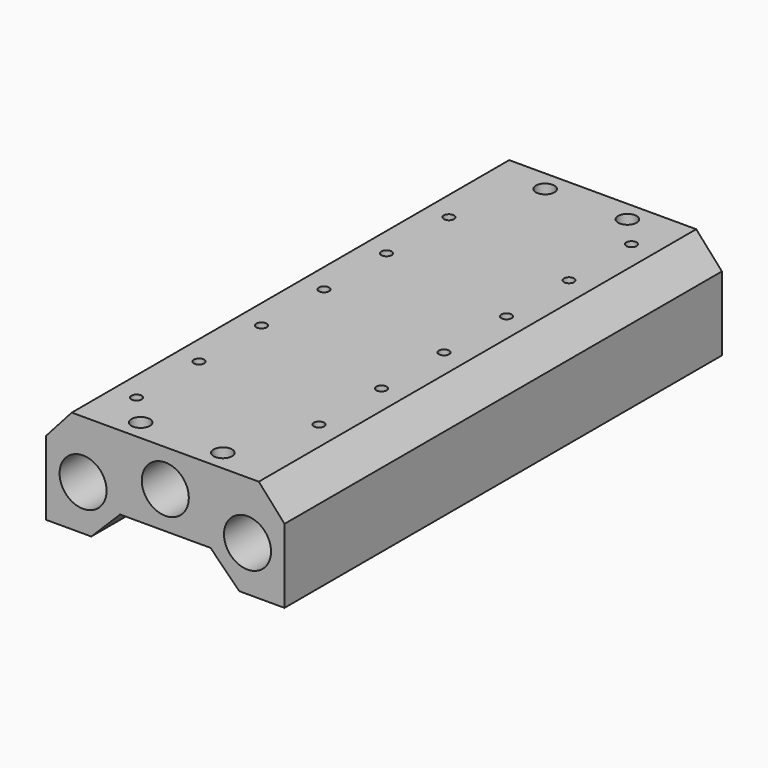
from build123d import *

# Parameters (mm, degrees)
F0_R     = 5.7225
F1_DEPTH = 133
F3_D     = 4.5
F5_D     = 2.5
F5_DEPTH = 10
F5_TIP   = 0.7510757738


with BuildPart() as f1:
    # F0 (on Front) → F1 (new body)
    with BuildSketch(Plane.XZ):
        Polygon((0.396219, -66.464568185), (0.396219, -48.517061), (-5.853781, -41.517061), (-51.353781, -41.517061), (-57.603781, -48.517061), (-57.603781, -66.517061), (-46.603781, -66.517061), (-39.603781, -59.517061), (-17.603781, -59.517061), (-10.603781, -66.517061), (0.396219, -66.517061), align=None)
        with Locations((-48.603781, -55.517061)):
            Circle(F0_R, mode=Mode.SUBTRACT)
        with Locations((-28.603781, -50.517061)):
            Circle(F0_R, mode=Mode.SUBTRACT)
        with Locations((-8.603781, -55.517061)):
            Circle(F0_R, mode=Mode.SUBTRACT)
    extrude(amount=F1_DEPTH)

    # F3 (through all)
    with Locations(Plane.XY.offset(-41.517061)):
        with Locations((-38.603781, -5), (-18.603781, -5), (-18.603781, -128), (-38.603781, -128)):
            Hole(F3_D / 2)

    # F5
    with Locations(Plane.XY.offset(-41.517061)):
        with Locations((-45.603781, -25.5), (-11.603781, -12.5), (-45.603781, -44.5), (-11.603781, -31.5), (-45.603781, -63.5), (-11.603781, -50.5), (-45.603781, -82.5), (-11.603781, -69.5), (-45.603781, -101.5), (-11.603781, -88.5), (-45.603781, -120.5), (-11.603781, -107.5)):
            Hole(F5_D / 2, depth=F5_DEPTH)
            with Locations((0, 0, -(F5_DEPTH + F5_TIP / 2))):  # 118° drill point
                Cone(0, F5_D / 2, F5_TIP, mode=Mode.SUBTRACT)


solid = f1.part
